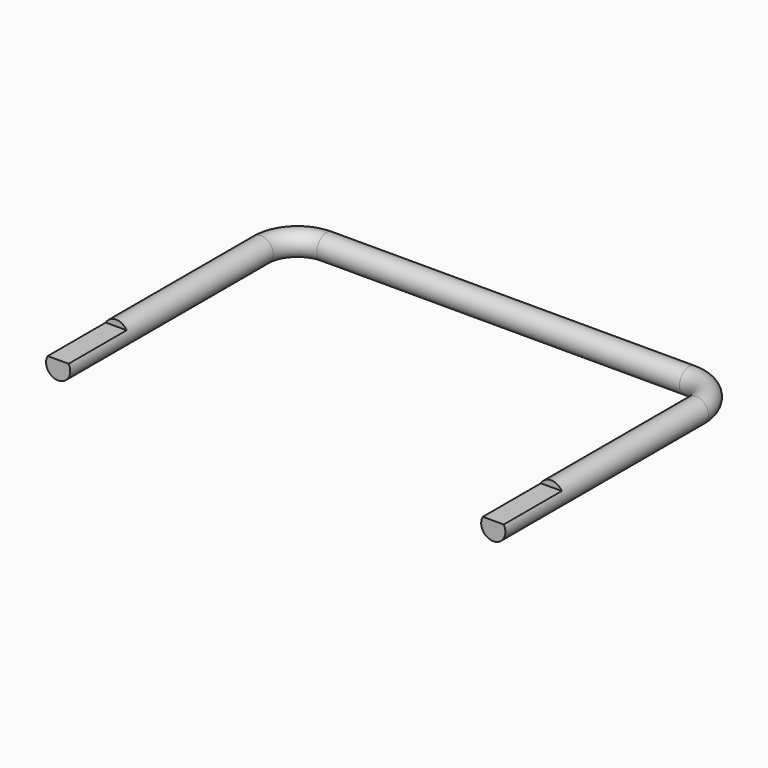
from build123d import *

# Parameters (mm, degrees)
F0_R      = 6.35
F1_ANGLE  = 90
F2_R      = 6.35
F3_ANGLE  = 90
F4_DEPTH  = 190.5
F5_DEPTH  = 133.35
F6_DEPTH  = 133.35
F8_DEPTH  = 38.1
F11_W     = 26.8649879572
F11_H     = 14.6399100293
F12_DEPTH = 41.275


with BuildPart() as f1:
    # F0 (on Front) → F1 (revolve)
    with BuildSketch(Plane.XZ):
        with Locations((19.05, 0)):
            Circle(F0_R)
    revolve(axis=Axis((0, 0, 21.6534970575), (0, 0, 1)), revolution_arc=F1_ANGLE)

    # F4 (add, through all): a face of the model
    f4_faces = [f1.faces().sort_by_distance(p)[0] for p in [
        (0, 19.05, 0),
    ]]


with BuildPart() as f3:
    # F2 (on Front) → F3 (revolve)
    with BuildSketch(Plane.XZ):
        with Locations((-209.55, 0)):
            Circle(F2_R)
    revolve(axis=Axis((-190.5, 0, 30.7127628475), (0, 0, -1)), revolution_arc=F3_ANGLE)


with BuildPart() as f1_1:
    add(f1.part)

    add(f3.part)  # F4 merges F3
    extrude(f4_faces, amount=F4_DEPTH)

    # F5 (add): a face of the model
    f5_faces = [f1_1.faces().sort_by_distance(p)[0] for p in [
        (19.05, 0, 0),
    ]]
    extrude(f5_faces, amount=F5_DEPTH)

    # F6 (add): a face of the model
    f6_faces = [f1_1.faces().sort_by_distance(p)[0] for p in [
        (-209.55, 0, 0),
    ]]
    extrude(f6_faces, amount=F6_DEPTH)

    # F7 (on face) → F8 (cut)
    with BuildSketch(Plane.XZ.offset(133.35)):
        with BuildLine():
            Line((33.0460654503, 34.1169642213), (-229.9606265432, 34.1169642213))
            Line((-229.9606265432, 34.1169642213), (-229.9606265432, 3.175))
            Line((-229.9606265432, 3.175), (-215.049261314, 3.175))
            ThreePointArc((-215.049261314, 3.175), (-209.55, 6.35), (-204.050738686, 3.175))
            Line((-204.050738686, 3.175), (33.0460654503, 3.175))
            Line((33.0460654503, 3.175), (33.0460654503, 34.1169642213))
        make_face()
    extrude(amount=-F8_DEPTH, mode=Mode.SUBTRACT)

    # F11 (on offset) → F12 (cut)
    with BuildSketch(Plane.XZ.offset(136.525)):
        with Locations((-210.3848606348, 10.4949550146)):
            Rectangle(F11_W, F11_H)
    extrude(amount=-F12_DEPTH, mode=Mode.SUBTRACT)


solid = f1_1.part
